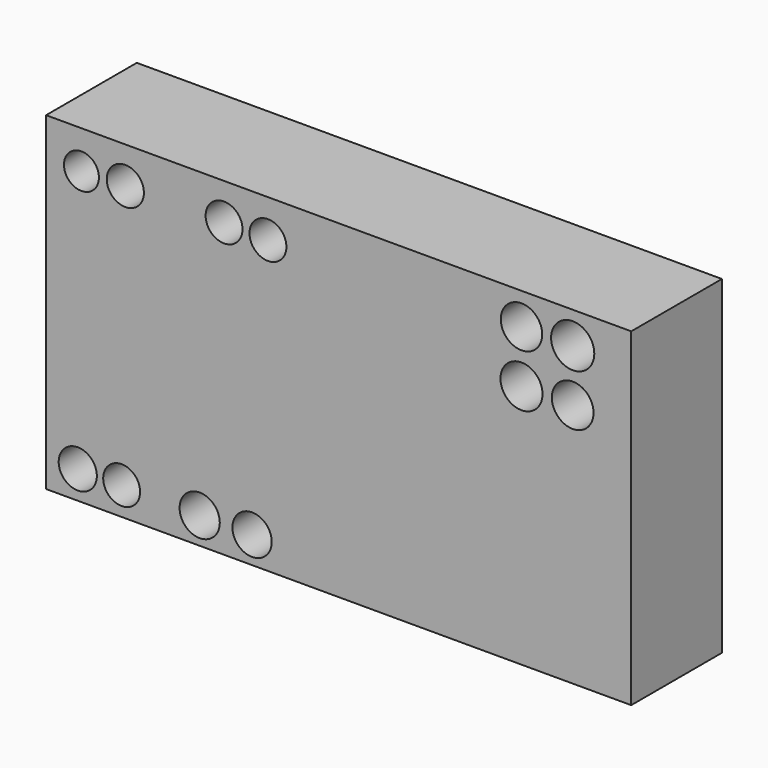
from build123d import *

# Parameters (mm, degrees)
F0_W     = 131.074406
F0_H     = 73.729352
F0_R     = 4.274249
F0_R_2   = 4.132324
F0_R_3   = 4.503614
F0_R_4   = 4.403148
F0_R_5   = 3.909793
F0_R_6   = 4.159305
F0_R_7   = 4.132325
F0_R_8   = 4.713948
F0_R_9   = 4.674234
F0_R_10  = 4.642219
F0_R_11  = 4.838842
F1_DEPTH = 25.4


with BuildPart() as f1:
    # F0 (on Front) → F1 (new body)
    with BuildSketch(Plane.XZ):
        with Locations((3.003787, -24.576451)):
            Rectangle(F0_W, F0_H)
        with Locations((-55.433549, -55.160478)):
            Circle(F0_R, mode=Mode.SUBTRACT)
        with Locations((-45.60297, -55.160478)):
            Circle(F0_R_2, mode=Mode.SUBTRACT)
        with Locations((-28.126383, -55.433549)):
            Circle(F0_R_3, mode=Mode.SUBTRACT)
        with Locations((-16.3843, -55.433549)):
            Circle(F0_R_4, mode=Mode.SUBTRACT)
        with Locations((-54.614335, 3.823003)):
            Circle(F0_R_5, mode=Mode.SUBTRACT)
        with Locations((-44.783756, 4.096075)):
            Circle(F0_R_6, mode=Mode.SUBTRACT)
        with Locations((-22.664949, 4.096075)):
            Circle(F0_R_7, mode=Mode.SUBTRACT)
        with Locations((-12.834369, 3.823003)):
            Circle(F0_R_2, mode=Mode.SUBTRACT)
        with Locations((43.964539, -6.553721)):
            Circle(F0_R_8, mode=Mode.SUBTRACT)
        with Locations((55.433553, -6.553721)):
            Circle(F0_R_9, mode=Mode.SUBTRACT)
        with Locations((43.964539, 5.188362)):
            Circle(F0_R_10, mode=Mode.SUBTRACT)
        with Locations((55.433553, 5.188362)):
            Circle(F0_R_11, mode=Mode.SUBTRACT)
    extrude(amount=F1_DEPTH)


solid = f1.part
